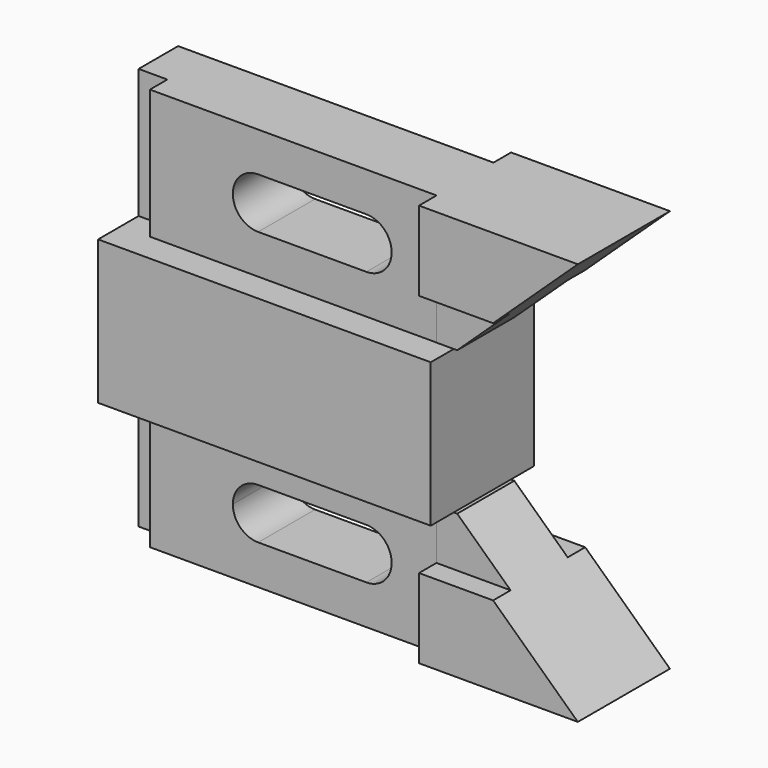
from build123d import *

# Parameters (mm, degrees)
F0_W      = 73.406
F0_H      = 31.75
F1_DEPTH  = 14.224
F3_DEPTH  = 28.575
F5_DEPTH  = 25.4
F8_DEPTH  = 12.7
F10_DEPTH = 4.826
F12_DEPTH = 4.826


with BuildPart() as f1:
    # F0 (on Front) → F1 (new body, symmetric)
    with BuildSketch(Plane.XZ):
        Rectangle(F0_W, F0_H)
    extrude(amount=F1_DEPTH, both=True)

    # F2 (on face) → F3 (join)
    with BuildSketch(Plane.XY.offset(15.875)):
        Polygon((-36.703, 7.854131), (-36.703, -3.048), (-30.353, -3.048), (-30.353, -7.854131), (32.893, -7.854131), (32.893, -12.7), (67.945, -12.7), (67.945, 12.7), (32.893, 12.7), (32.893, 7.854131), align=None)
    extrude(amount=F3_DEPTH)

    # F4 (on face) → F5 (cut)
    with BuildSketch(Plane.XZ.offset(12.7)):
        Polygon((67.945, 44.45), (37.465, 15.875), (67.945, 15.875), align=None)
    extrude(amount=-F5_DEPTH, mode=Mode.SUBTRACT)

    # F6: F1 across plane


with BuildPart() as f1_1:
    add(f1.part)
    add(f1.part.mirror(Plane.XY))

    # F7 (on Front) → F8 (cut, symmetric)
    with BuildSketch(Plane.XZ):
        with BuildLine():
            ThreePointArc((-6.477, -24.5745), (-10.428313, -26.211187), (-12.065, -30.1625))
            Line((-12.065, -30.1625), (22.987, -30.1625))
            ThreePointArc((22.987, -30.1625), (21.350313, -26.211187), (17.399, -24.5745))
            Line((17.399, -24.5745), (-6.477, -24.5745))
        make_face()
        with BuildLine():
            Line((22.987, -30.1625), (-12.065, -30.1625))
            ThreePointArc((-12.065, -30.1625), (-10.428313, -34.113813), (-6.477, -35.7505))
            Line((-6.477, -35.7505), (17.399, -35.7505))
            ThreePointArc((17.399, -35.7505), (21.350313, -34.113813), (22.987, -30.1625))
        make_face()
        with BuildLine():
            ThreePointArc((-6.477, 35.7505), (-12.065, 30.1625), (-6.477, 24.5745))
            Line((-6.477, 24.5745), (17.399, 24.5745))
            ThreePointArc((17.399, 24.5745), (22.987, 30.1625), (17.399, 35.7505))
            Line((17.399, 35.7505), (-6.477, 35.7505))
        make_face()
    extrude(amount=F8_DEPTH, both=True, mode=Mode.SUBTRACT)

    # F9 (on face) → F10 (cut)
    with BuildSketch(Plane.XZ.offset(12.7)):
        Polygon((32.893, -15.875), (32.893, -26.924), (49.2506, -26.924), (37.465, -15.875), align=None)
        Polygon((37.465, 15.875), (49.2506, 26.924), (32.893, 26.924), (32.893, 15.875), align=None)
    extrude(amount=-F10_DEPTH, mode=Mode.SUBTRACT)

    # F11 (on face) → F12 (cut)
    with BuildSketch(Plane(origin=(0, 12.7, 0), x_dir=(-1, 0, 0), z_dir=(0, 1, 0))):
        Polygon((-49.2506, -26.924), (-32.893, -26.924), (-32.893, -15.875), (-36.703, -15.875), (-37.465, -15.875), align=None)
        Polygon((-37.465, 15.875), (-36.703, 15.875), (-32.893, 15.875), (-32.893, 26.924), (-49.2506, 26.924), align=None)
    extrude(amount=-F12_DEPTH, mode=Mode.SUBTRACT)


solid = f1_1.part
